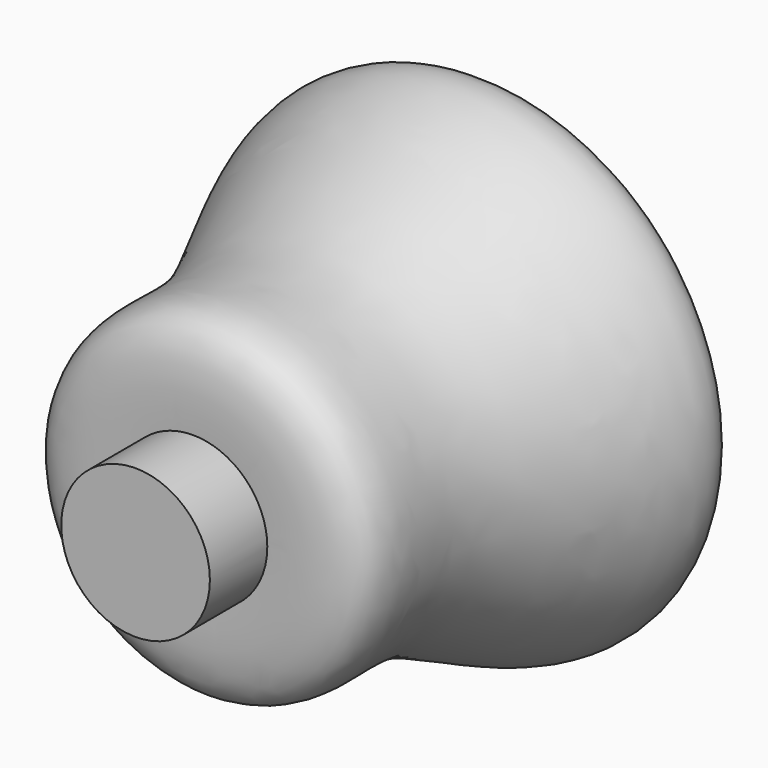
from build123d import *

# Parameters (mm, degrees)
F2_R     = 11.43
F3_DEPTH = 44.45


with BuildPart() as f1:
    # F0 (on Top) → F1 (revolve)
    with BuildSketch(Plane.XY):
        with BuildLine():
            add(Edge.make_bspline(
                [(17.6829508, 22.8735139918), (28.1254590733, 24.3894817723), (48.0226212143, 24.6410984853), (21.2809213002, -10.1813279097), (29.7679732492, -32.9849444062), (17.0475428929, -33.7805617249), (10.6336492771, -33.3697836943)],
                knots=[0.0992418097, 0.0992418097, 0.0992418097, 0.0992418097, 0.2882506294, 0.5576146203, 0.7678653541, 0.92034649, 0.92034649, 0.92034649, 0.92034649], degree=3))
            Line((17.6829508, 22.8735139918), (10.6336492771, -33.3697836943))
        make_face()
    revolve(axis=Axis((0, -6.3062068075, 0), (0, -1, 0)))

    # F2 (on Front) → F3 (join)
    with BuildSketch(Plane.XZ):
        Circle(F2_R)
    extrude(amount=F3_DEPTH)


solid = f1.part
